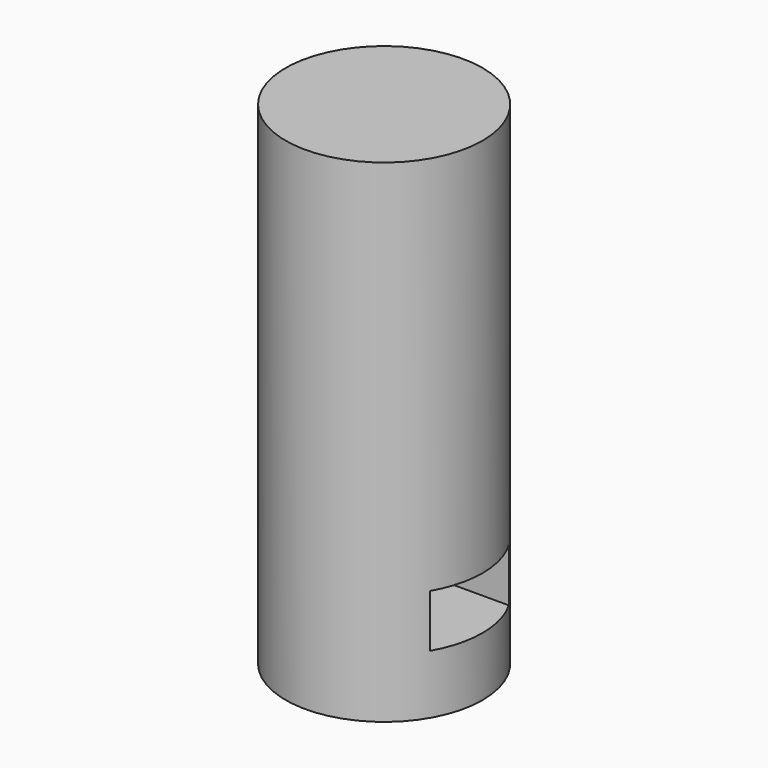
from build123d import *

# Parameters (mm, degrees)
F0_R          = 50
F1_DEPTH      = 250
F2_W          = 50
F2_H          = 26.758289
F3_DEPTH      = 50
F3_DEPTH_BACK = 50


with BuildPart() as f1:
    # F0 (on Top) → F1 (new body)
    with BuildSketch(Plane.XY):
        Circle(F0_R)
    extrude(amount=F1_DEPTH)

    # F2 (on Right) → F3 (cut, two sides)
    with BuildSketch(Plane.YZ) as f3_sk:
        with Locations((0, 43.379144)):
            Rectangle(F2_W, F2_H)
    extrude(amount=F3_DEPTH, mode=Mode.SUBTRACT)
    extrude(f3_sk.sketch, amount=-F3_DEPTH_BACK, mode=Mode.SUBTRACT)


solid = f1.part
